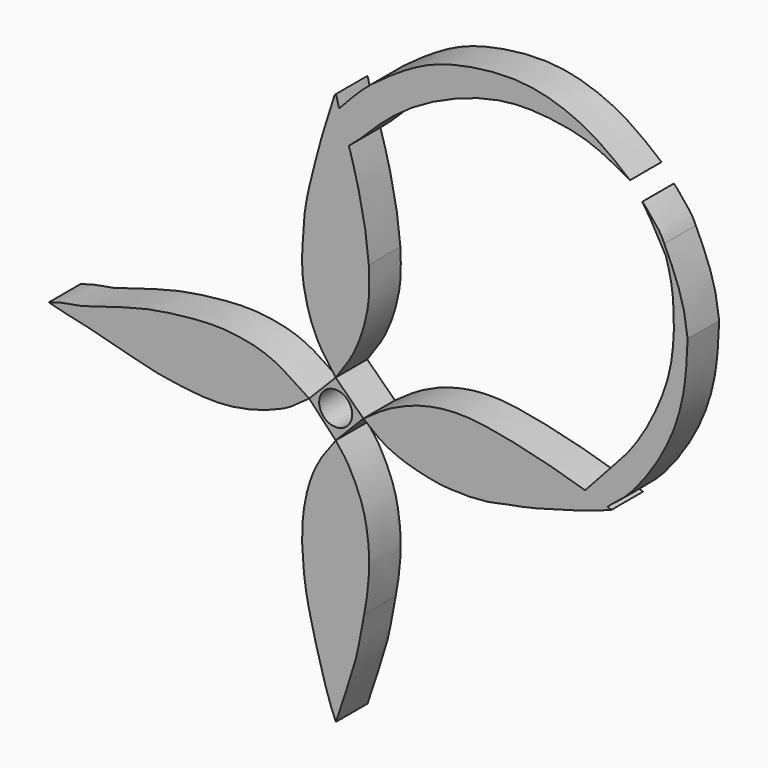
from build123d import *

# Parameters (mm, degrees)
F0_R     = 1.914377629
F1_DEPTH = 4.572


with BuildPart() as f1:
    # F0 (on Front) → F1 (new body)
    with BuildSketch(Plane.XZ):
        Polygon((4.3540473053, 17.1728864424), (1.144419075, 20.3148666769), (-1.9313389524, 17.1728864424), (1.144419075, 13.89415373), align=None)
        with Locations((1.144419075, 17.1728864424)):
            Circle(F0_R, mode=Mode.SUBTRACT)
    extrude(amount=F1_DEPTH)


with BuildPart() as f1b:
    # F0 (on Front) → F1, piece 2 (new body)
    with BuildSketch(Plane.XZ):
        with BuildLine():
            add(Edge.make_bspline(
                [(4.3540473053, 17.1728864424), (5.2002764718, 17.7502908704), (6.8166903181, 18.996790241), (10.5893674928, 20.7365730749), (15.4431085668, 21.5269247929), (21.0329995799, 20.6401669393), (26.3787727747, 19.3418628948), (29.2460669226, 18.4691171498), (30.0611715761, 18.2125954082)],
                knots=[0, 0, 0, 0, 0.1303828395, 0.2811403367, 0.4458875245, 0.6242047691, 0.8188720194, 0.898394093, 0.898394093, 0.898394093, 0.898394093], degree=3))
            add(Edge.make_bspline(
                [(4.3540473053, 17.1728864424), (4.8834267349, 16.82001367), (5.8034154669, 15.869885235), (8.3657148964, 14.4432850508), (11.9254587672, 13.5284804789), (14.5666703045, 13.1499881083), (18.6456998132, 13.1978904646), (20.084264205, 13.6439520346), (20.6997785717, 13.7615194544)],
                knots=[0, 0, 0, 0, 0.1364329724, 0.305168072, 0.4934445676, 0.6592761286, 0.8566804704, 1, 1, 1, 1], degree=3))
            add(Edge.make_bspline(
                [(20.6997785717, 13.7615194544), (21.659852867, 13.9327062748), (23.9703464616, 14.3446806958), (30.3341535032, 16.1346772301), (32.3322401963, 16.909207593), (33.135689795, 17.2206535935)],
                knots=[0, 0, 0, 0, 0.2982788408, 0.7178312704, 1, 1, 1, 1], degree=3))
            add(Edge.make_bspline(
                [(32.6401094693, 17.3818640199), (32.8052868046, 17.3280855801), (32.9704363032, 17.2743373784), (33.135689795, 17.2206535935)],
                knots=[0.9835142845, 0.9835142845, 0.9835142845, 0.9835142845, 1, 1, 1, 1], degree=3))
            add(Edge.make_bspline(
                [(30.0611715761, 18.2125954082), (30.9336571772, 17.9380152975), (31.7872543766, 17.6595365962), (32.6401094693, 17.3818640199)],
                knots=[0.898394093, 0.898394093, 0.898394093, 0.898394093, 0.9835142845, 0.9835142845, 0.9835142845, 0.9835142845], degree=3))
        make_face()
        with BuildLine():
            add(Edge.make_bspline(
                [(30.0611715761, 18.2125954082), (30.9269331199, 19.1893155517), (32.7899318145, 21.2440740263), (36.4364981048, 24.961252581), (40.0929451034, 32.6454180811), (40.2735001693, 36.3147586572), (40.3533726931, 37.9378013313)],
                knots=[0, 0, 0, 0, 0.2100002751, 0.4526596582, 0.7582843728, 1, 1, 1, 1], degree=3))
            add(Edge.make_bspline(
                [(30.0611715761, 18.2125954082), (30.9336571772, 17.9380152975), (31.7872543766, 17.6595365962), (32.6401094693, 17.3818640199)],
                knots=[0.898394093, 0.898394093, 0.898394093, 0.898394093, 0.9835142845, 0.9835142845, 0.9835142845, 0.9835142845], degree=3))
            add(Edge.make_bspline(
                [(32.6401094693, 17.3818640199), (33.4897005454, 18.0240874239), (35.5072661064, 19.5391188504), (39.4036161797, 24.9400033699), (41.6686316954, 31.1618598312), (41.8566010456, 35.4334183607), (41.9492535293, 37.5388301909)],
                knots=[0, 0, 0, 0, 0.1954550156, 0.4642653895, 0.7360194776, 1, 1, 1, 1], degree=3))
            add(Edge.make_bspline(
                [(41.9492535293, 37.5388301909), (41.8223458147, 38.5538892531), (41.5624863325, 40.6323501487), (40.402363814, 43.8785456989), (39.6118303279, 45.5680446774), (39.2389111221, 46.3650338352)],
                knots=[0, 0, 0, 0, 0.3352184614, 0.6864018947, 1, 1, 1, 1], degree=3))
            add(Edge.make_bspline(
                [(39.427626878, 45.1698414981), (38.7810438265, 46.3933671139), (37.7573705724, 48.3304584832), (36.0407442165, 50.6341665447), (38.6775176397, 47.6543749121), (39.0681710323, 46.7571691523), (39.2389111221, 46.3650338352)],
                knots=[0, 0, 0, 0, 0.3295123029, 0.52168539, 0.7909464476, 1, 1, 1, 1], degree=3))
            add(Edge.make_bspline(
                [(40.3533726931, 37.9378013313), (40.3362088283, 39.3759732268), (40.3040681332, 42.0690639189), (39.7062134945, 44.1842248021), (39.427626878, 45.1698414981)],
                knots=[0, 0, 0, 0, 0.5340228236, 1, 1, 1, 1], degree=3))
        make_face()
    extrude(amount=F1_DEPTH)


with BuildPart() as f1c:
    # F0 (on Front) → F1, piece 3 (new body)
    with BuildSketch(Plane.XZ):
        with BuildLine():
            add(Edge.make_bspline(
                [(1.144419075, 13.89415373), (1.5873923605, 13.3628649846), (2.5746141849, 12.1849783297), (4.4131407271, 8.3507755782), (4.9009891805, 5.0669399575), (5.1355059348, 2.4349377155), (4.8142273833, -0.7881344112), (4.5589072421, -2.1720681876), (4.444997292, -2.78918189)],
                knots=[0, 0, 0, 0, 0.1451368825, 0.3460903353, 0.5255618996, 0.6854452548, 0.8607210596, 1, 1, 1, 1], degree=3))
            add(Edge.make_bspline(
                [(1.144419075, 13.89415373), (0.6228953401, 13.1423373124), (-0.5709258071, 11.7371522739), (-1.8625165014, 9.0244370135), (-2.5567775596, 6.0143815258), (-2.8646663348, 3.0867992142), (-2.5350212726, -1.5305565313), (-2.1548771922, -3.3577439997), (-1.9902971108, -4.1492190212)],
                knots=[0, 0, 0, 0, 0.1557573206, 0.3181897533, 0.4813508649, 0.6450889183, 0.8465510507, 1, 1, 1, 1], degree=3))
            add(Edge.make_bspline(
                [(-1.9902971108, -4.1492190212), (-1.7178737386, -5.2971539706), (-1.4454503664, -6.4450889201), (-1.1242530752, -7.6854479893)],
                knots=[0, 0, 0, 0, 0.3083888636, 0.3083888636, 0.3083888636, 0.3083888636], degree=3))
            add(Edge.make_bspline(
                [(-1.1242530752, -7.6854479893), (-1.0611116055, -7.9292797298), (-0.5855188015, -9.7387517779), (0.3445038269, -12.9177999694), (0.9370137972, -14.2871736915), (1.1700966861, -14.8258609697)],
                knots=[0.3083888636, 0.3083888636, 0.3083888636, 0.3083888636, 0.3690124324, 0.7517807083, 1, 1, 1, 1], degree=3))
            add(Edge.make_bspline(
                [(4.444997292, -2.78918189), (4.2956867268, -3.6797425485), (3.8369457211, -5.80097639), (3.6823989386, -7.3162539335), (1.7746661624, -13.0770371946), (1.1700966861, -14.8258609697)],
                knots=[0, 0, 0, 0, 0.2902663782, 0.5246883324, 1, 1, 1, 1], degree=3))
        make_face()
    extrude(amount=F1_DEPTH)


with BuildPart() as f1d:
    # F0 (on Front) → F1, piece 4 (new body)
    with BuildSketch(Plane.XZ):
        with BuildLine():
            add(Edge.make_bspline(
                [(-1.9313389524, 17.1728864424), (-2.653877942, 16.6414931848), (-4.1459773771, 15.4057062505), (-7.6327253838, 14.0297397392), (-12.1065902091, 13.0580585735), (-15.9601385294, 13.4625747976), (-18.0427130181, 13.8069376461)],
                knots=[0, 0, 0, 0, 0.2039010882, 0.438244539, 0.6992384392, 1, 1, 1, 1], degree=3))
            add(Edge.make_bspline(
                [(-1.9313389524, 17.1728864424), (-2.8851640322, 17.7822505548), (-4.6713162549, 19.0813790115), (-7.7188353944, 20.5348916876), (-12.2801898612, 21.2307473484), (-16.755849135, 20.8459214352), (-22.1604059272, 20.0948760779), (-28.7159334213, 17.6648117868), (-30.4579488802, 17.7867546789), (-32.1153994519, 17.1728864424)],
                knots=[0, 0, 0, 0, 0.1234042062, 0.2473445701, 0.3914173275, 0.5347049015, 0.6961963635, 0.8691494288, 1, 1, 1, 1], degree=3))
            add(Edge.make_bspline(
                [(-32.1153994519, 17.1728864424), (-31.0815218836, 16.8208128963), (-29.4423448343, 16.5495606299), (-27.4337358642, 16.0735588632)],
                knots=[0, 0, 0, 0, 0.3442819071, 0.3442819071, 0.3442819071, 0.3442819071], degree=3))
            add(Edge.make_bspline(
                [(-27.4337358642, 16.0735588632), (-24.8917441946, 15.4711556361), (-20.1756912359, 14.0710446119), (-18.5255951576, 13.8715956747), (-18.0427130181, 13.8069376461)],
                knots=[0.3442819071, 0.3442819071, 0.3442819071, 0.3442819071, 0.7799872897, 1, 1, 1, 1], degree=3))
        make_face()
    extrude(amount=F1_DEPTH)


with BuildPart() as f1e:
    # F0 (on Front) → F1, piece 5 (new body)
    with BuildSketch(Plane.XZ):
        with BuildLine():
            add(Edge.make_bspline(
                [(1.144419075, 20.3148666769), (0.5199812184, 21.155713115), (-0.8269606258, 22.9243827894), (-2.0578372506, 25.851395924), (-2.8473804822, 29.6404775774), (-2.7500630231, 31.5875777064), (-2.7064986061, 32.4787124991)],
                knots=[0, 0, 0, 0, 0.2483343991, 0.4966861785, 0.7676381911, 1, 1, 1, 1], degree=3))
            add(Edge.make_bspline(
                [(1.144419075, 20.3148666769), (1.7949535806, 21.2481171338), (3.0155830796, 22.893404884), (4.1812513816, 25.5705479788), (5.1321604612, 29.2208283948), (5.0364200271, 31.7507338518), (4.987034481, 33.041652292)],
                knots=[0, 0, 0, 0, 0.242175066, 0.4723843884, 0.7337926408, 1, 1, 1, 1], degree=3))
            add(Edge.make_bspline(
                [(4.987034481, 33.041652292), (4.8972166456, 34.0371457109), (4.6978409318, 36.2469207507), (3.7310647068, 40.911911014), (3.0116135474, 43.3344911247), (2.6735344436, 44.4728918374)],
                knots=[0, 0, 0, 0, 0.3029303063, 0.6724382271, 1, 1, 1, 1], degree=3))
            add(Edge.make_bspline(
                [(1.5653843646, 47.9258298874), (1.6857206499, 47.620754174), (2.0978206625, 46.7600099213), (2.4321596428, 45.2804480019), (2.6735344436, 44.4728918374)],
                knots=[0.6441126688, 0.6441126688, 0.6441126688, 0.6441126688, 0.7656422353, 1, 1, 1, 1], degree=3))
            add(Edge.make_bspline(
                [(-0.4505839897, 44.4449968636), (-0.0483940922, 45.6383498132), (0.5517597256, 47.5626436454), (1.1641051588, 49.749204397), (1.3307698369, 48.5687814002), (1.5077680821, 48.0718982861), (1.5653843646, 47.9258298874)],
                knots=[0, 0, 0, 0, 0.2782474172, 0.449577905, 0.5859250504, 0.6441126688, 0.6441126688, 0.6441126688, 0.6441126688], degree=3))
            add(Edge.make_bspline(
                [(-2.7064986061, 32.4787124991), (-2.6517198732, 33.6812964098), (-2.5393791515, 36.1475663875), (-1.6432103241, 40.0792252934), (-0.8564665567, 42.959208297), (-0.4505839897, 44.4449968636)],
                knots=[0, 0, 0, 0, 0.3153924521, 0.6468096978, 1, 1, 1, 1], degree=3))
        make_face()
        with BuildLine():
            add(Edge.make_bspline(
                [(1.5653843646, 47.9258298874), (1.6857206499, 47.620754174), (2.0978206625, 46.7600099213), (2.4321596428, 45.2804480019), (2.6735344436, 44.4728918374)],
                knots=[0.6441126688, 0.6441126688, 0.6441126688, 0.6441126688, 0.7656422353, 1, 1, 1, 1], degree=3))
            add(Edge.make_bspline(
                [(2.6735344436, 44.4728918374), (3.5954309117, 45.1707597404), (5.3511831817, 47.0661107474), (9.0895204649, 50.3973970629), (14.422813355, 53.2906036208), (20.5770153177, 55.1619882104), (25.8556282032, 54.9752592041), (30.8778359052, 54.0585576622), (33.8007858184, 52.3859722809), (35.2633185685, 51.5488944948)],
                knots=[0, 0, 0, 0, 0.1200813232, 0.2601411068, 0.4158493927, 0.5746652292, 0.7185498892, 0.8591461752, 1, 1, 1, 1], degree=3))
            add(Edge.make_bspline(
                [(1.5653843646, 47.9258298874), (2.5747580811, 49.019842626), (4.5690406474, 51.2224163117), (8.3438004685, 53.8027781924), (12.2576206658, 56.1505689578), (18.0760567431, 57.5002057418), (24.3742434617, 57.6850968789), (30.9446863828, 55.1430071428), (33.8741977688, 52.7049652331), (35.2633185685, 51.5488944948)],
                knots=[0, 0, 0, 0, 0.129644587, 0.2600013573, 0.3907625867, 0.5394215081, 0.6940491911, 0.8549921848, 1, 1, 1, 1], degree=3))
        make_face()
    extrude(amount=F1_DEPTH)


solid = Compound([f1.part, f1b.part, f1c.part, f1d.part, f1e.part])
